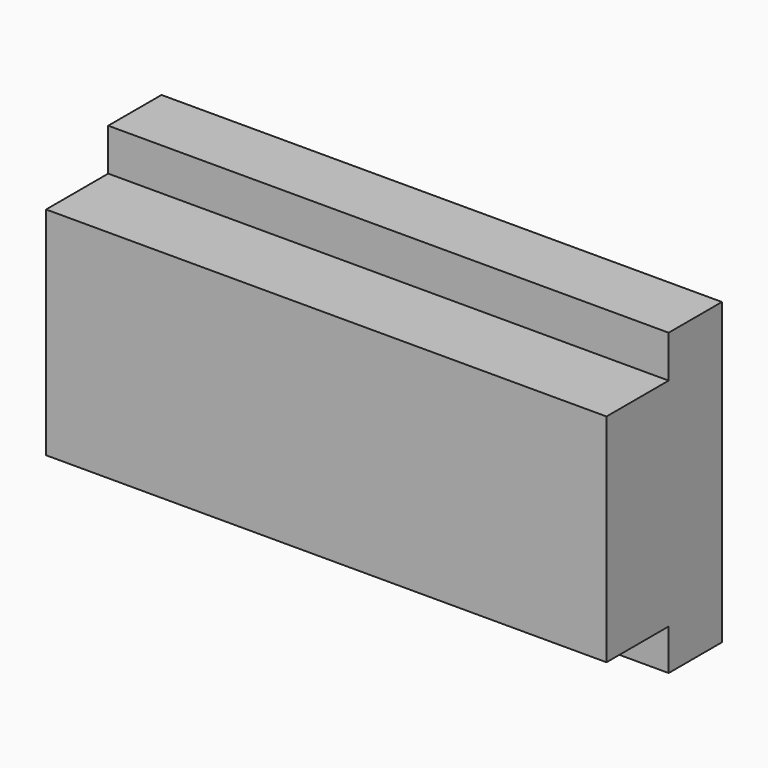
from build123d import *

# Parameters (mm, degrees)
BOX002002_W     = 50.5
BOX002002_H     = 7
BOX002002_DEPTH = 19.5
BOX002003_W     = 50.5
BOX002003_H     = 6
BOX002003_DEPTH = 27


with BuildPart() as f_7segment:
    # Box002002 → Box002002 (new body)
    with BuildSketch(Plane.XY.offset(3.7)):
        with Locations((25.25, 3.5)):
            Rectangle(BOX002002_W, BOX002002_H)
    extrude(amount=BOX002002_DEPTH)


with BuildPart() as f_7segmentbackpack:
    # Box002003 → Box002003 (new body)
    with BuildSketch(Plane(origin=(0, 7, 0), x_dir=(1, 0, 0), z_dir=(0, 0, 1))):
        with Locations((25.25, 3)):
            Rectangle(BOX002003_W, BOX002003_H)
    extrude(amount=BOX002003_DEPTH)

    # Fusion: union 7Segment
    add(f_7segment.part)


solid = f_7segmentbackpack.part
